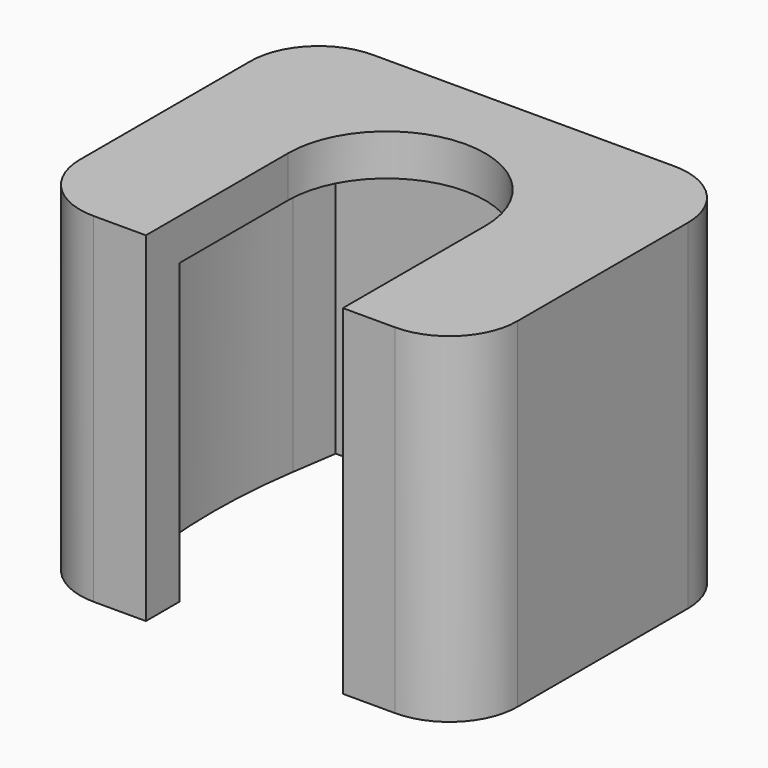
from build123d import *

# Parameters (mm, degrees)
F3_DEPTH = 50
F2_R     = 14.5
F4_DEPTH = 75
F5_DEPTH = 43.9
F6_W     = 29
F6_H     = 29
F7_DEPTH = 59.8


with BuildPart() as f3:
    # F1 (on Top) → F3 (new body)
    with BuildSketch(Plane.XY):
        with BuildLine():
            ThreePointArc((32.19508, 15.206385), (29.266148, 22.277453), (22.19508, 25.206385))
            Line((22.19508, 25.206385), (-22.19508, 25.206385))
            ThreePointArc((-22.19508, 25.206385), (-29.266148, 22.277453), (-32.19508, 15.206385))
            Line((-32.19508, 15.206385), (-32.19508, -16.179468))
            ThreePointArc((-32.19508, -16.179468), (-29.266148, -23.250536), (-22.19508, -26.179468))
            Line((-22.19508, -26.179468), (22.19508, -26.179468))
            ThreePointArc((22.19508, -26.179468), (29.266148, -23.250536), (32.19508, -16.179468))
            Line((32.19508, -16.179468), (32.19508, 15.206385))
        make_face()
    extrude(amount=F3_DEPTH)

    # F2 (on Top) → F4 (cut)
    with BuildSketch(Plane.XY):
        Circle(F2_R)
    extrude(amount=F4_DEPTH, mode=Mode.SUBTRACT)

    # F0 (on Top) → F5 (cut)
    with BuildSketch(Plane.XY):
        with BuildLine():
            Line((23.5, 20), (-23.5, 20))
            Line((-23.5, 20), (-24.497404, 13.350641))
            ThreePointArc((-24.497404, 13.350641), (-25.493132, 0), (-24.497404, -13.350641))
            Line((-24.497404, -13.350641), (-23.5, -20))
            Line((-23.5, -20), (23.5, -20))
            Line((23.5, -20), (24.497404, -13.350641))
            ThreePointArc((24.497404, -13.350641), (25.493132, 0), (24.497404, 13.350641))
            Line((24.497404, 13.350641), (23.5, 20))
        make_face()
    extrude(amount=F5_DEPTH, mode=Mode.SUBTRACT)

    # F6 (on face) → F7 (cut)
    with BuildSketch(Plane.XY.offset(50)):
        with Locations((0, -14.5)):
            Rectangle(F6_W, F6_H)
    extrude(amount=-F7_DEPTH, mode=Mode.SUBTRACT)


solid = f3.part
